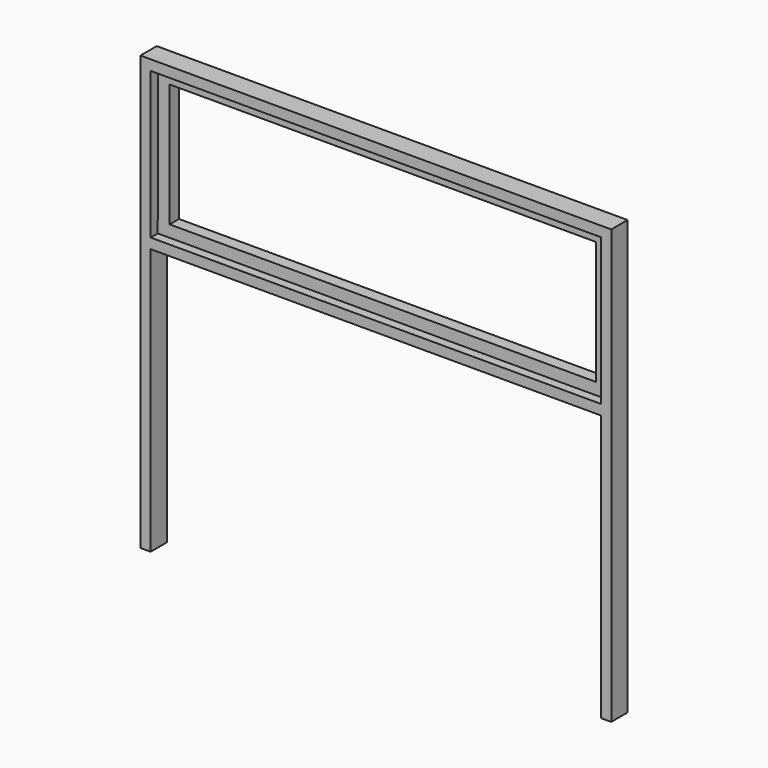
from build123d import *

# Parameters (mm, degrees)
F0_W     = 1457.96
F0_H     = 33.02
F2_DEPTH = 66.04
F1_W     = 38.1
F1_H     = 398.78
F3_DEPTH = 38.1


with BuildPart() as f2:
    # F0 (on Front) → F2 (new body)
    with BuildSketch(Plane.XZ):
        Polygon((33.02, -33.02), (0, -33.02), (0, -1403.35), (33.02, -1403.35), (33.02, -541.02), (33.02, -508), align=None)
        with Locations((762, -524.51)):
            Rectangle(F0_W, F0_H)
        Polygon((1524, 0), (0, 0), (0, -33.02), (33.02, -33.02), (1490.98, -33.02), (1524, -33.02), align=None)
        Polygon((1524, -1403.35), (1524, -33.02), (1490.98, -33.02), (1490.98, -508), (1490.98, -541.02), (1490.98, -1403.35), align=None)
    extrude(amount=F2_DEPTH)

    # F1 (on Front) → F3 (join)
    with BuildSketch(Plane.XZ):
        Polygon((32.722634, -469.192196), (32.722634, -507.292196), (1490.682634, -507.292196), (1490.682634, -469.192196), (1452.582634, -469.192196), (72.102677, -469.192196), (34.002677, -469.192196), align=None)
        with Locations((53.052677, -269.802196)):
            Rectangle(F1_W, F1_H)
        Polygon((34.002677, -32.312196), (34.002677, -70.412196), (72.102677, -70.412196), (1452.582634, -70.412196), (1452.582634, -32.312196), align=None)
        Polygon((1452.582634, -469.192196), (1490.682634, -469.192196), (1490.682634, -32.312196), (1452.582634, -32.312196), (1452.582634, -70.412196), align=None)
    extrude(amount=F3_DEPTH)


solid = f2.part
